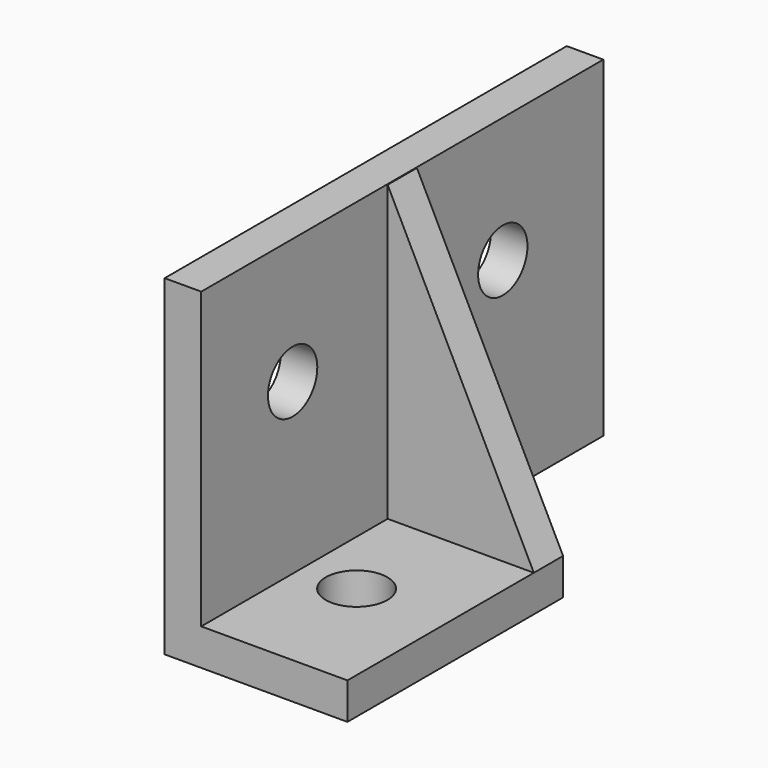
from build123d import *

# Parameters (mm, degrees)
BOX002_W          = 1.6
BOX002_H          = 11.8
BOX002_DEPTH      = 14.5
EXTRUDE_DEPTH     = 1.6
CYLINDER002_R     = 1.35
CYLINDER002_DEPTH = 10
CYLINDER001_R     = 1.35
CYLINDER001_DEPTH = 10
CYLINDER_R        = 1.35
CYLINDER_DEPTH    = 10
BOX_W             = 1.6
BOX_H             = 22
BOX_DEPTH         = 14.5
BOX001_W          = 6.4
BOX001_H          = 11.8
BOX001_DEPTH      = 1.6
CYLINDER003_R     = 1.35
CYLINDER003_DEPTH = 10
BOX003_W          = 1.6
BOX003_H          = 11.8
BOX003_DEPTH      = 14.5


with BuildPart() as cube002:
    # Box002 → Box002 (new body)
    with BuildSketch(Plane.XY):
        with Locations((0.8, 5.9)):
            Rectangle(BOX002_W, BOX002_H)
    extrude(amount=BOX002_DEPTH)


with BuildPart() as extrude_body:
    # Sketch → Extrude (new body)
    with BuildSketch(Plane.XZ):
        Polygon((1.593675, 14.483153), (1.593675, 1.60001), (7.999931, 1.60001), align=None)
    extrude(amount=EXTRUDE_DEPTH)


with BuildPart() as extrude_body_1:
    # Extrude placement: moved
    add(extrude_body.part.moved(Location((0, 11.8, 0))))


with BuildPart() as cylinder002:
    # Cylinder002 → Cylinder002 (new body)
    with BuildSketch(Plane(origin=(4, 5.5, 0), x_dir=(1, 0, 0), z_dir=(0, 0, 1))):
        Circle(CYLINDER002_R)
    extrude(amount=CYLINDER002_DEPTH)


with BuildPart() as cylinder001:
    # Cylinder001 → Cylinder001 (new body)
    with BuildSketch(Plane(origin=(0, 16.5, 9), x_dir=(0, 0, -1), z_dir=(1, 0, 0))):
        Circle(CYLINDER001_R)
    extrude(amount=CYLINDER001_DEPTH)


with BuildPart() as cylinder:
    # Cylinder → Cylinder (new body)
    with BuildSketch(Plane(origin=(0, 5.5, 9), x_dir=(0, 0, -1), z_dir=(1, 0, 0))):
        Circle(CYLINDER_R)
    extrude(amount=CYLINDER_DEPTH)


with BuildPart() as cut001:
    # Box → Box (new body)
    with BuildSketch(Plane.XY):
        with Locations((0.8, 11)):
            Rectangle(BOX_W, BOX_H)
    extrude(amount=BOX_DEPTH)

    # Cut: cut Cylinder
    add(cylinder.part, mode=Mode.SUBTRACT)

    # Cut001: cut Cylinder001
    add(cylinder001.part, mode=Mode.SUBTRACT)


with BuildPart() as cut003:
    # Box001 → Box001 (new body)
    with BuildSketch(Plane(origin=(1.6, 0, 0), x_dir=(1, 0, 0), z_dir=(0, 0, 1))):
        with Locations((3.2, 5.9)):
            Rectangle(BOX001_W, BOX001_H)
    extrude(amount=BOX001_DEPTH)

    # Connect: union Cut001
    add(cut001.part)

    # Cut002: cut Cylinder002
    add(cylinder002.part, mode=Mode.SUBTRACT)

    # Connect001: union Extrude body
    add(extrude_body_1.part)

    # Cut003: cut Cube002
    add(cube002.part, mode=Mode.SUBTRACT)


with BuildPart() as cylinder003:
    # Cylinder003 → Cylinder003 (new body)
    with BuildSketch(Plane(origin=(0, 5, 9), x_dir=(0, 0, -1), z_dir=(1, 0, 0))):
        Circle(CYLINDER003_R)
    extrude(amount=CYLINDER003_DEPTH)


with BuildPart() as connect002:
    # Box003 → Box003 (new body)
    with BuildSketch(Plane.XY):
        with Locations((0.8, 5.9)):
            Rectangle(BOX003_W, BOX003_H)
    extrude(amount=BOX003_DEPTH)

    # Cut004: cut Cylinder003
    add(cylinder003.part, mode=Mode.SUBTRACT)

    # Connect002: union Cut003
    add(cut003.part)


solid = connect002.part
